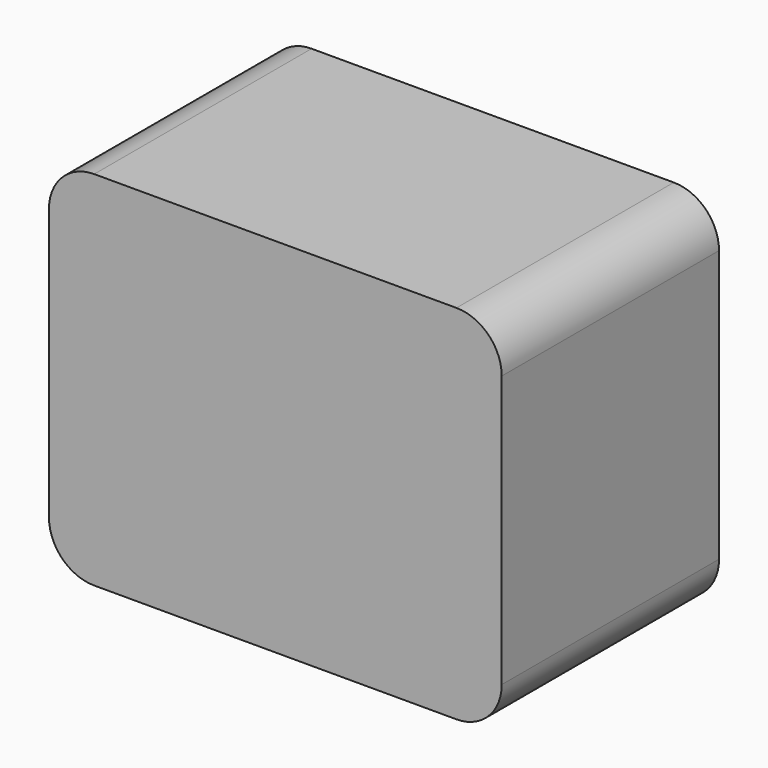
from build123d import *

# Parameters (mm, degrees)
F1_DEPTH = 38.1


with BuildPart() as f1:
    # F0 (on Front) → F1 (new body, symmetric)
    with BuildSketch(Plane.XZ):
        with BuildLine():
            Line((50.8, 50.8), (-50.8, 50.8))
            ThreePointArc((-50.8, 50.8), (-59.780256, 47.080256), (-63.5, 38.1))
            Line((-63.5, 38.1), (-63.5, -38.1))
            ThreePointArc((-63.5, -38.1), (-59.780256, -47.080256), (-50.8, -50.8))
            Line((-50.8, -50.8), (50.8, -50.8))
            ThreePointArc((50.8, -50.8), (59.780256, -47.080256), (63.5, -38.1))
            Line((63.5, -38.1), (63.5, 38.1))
            ThreePointArc((63.5, 38.1), (59.780256, 47.080256), (50.8, 50.8))
        make_face()
    extrude(amount=F1_DEPTH, both=True)


solid = f1.part
